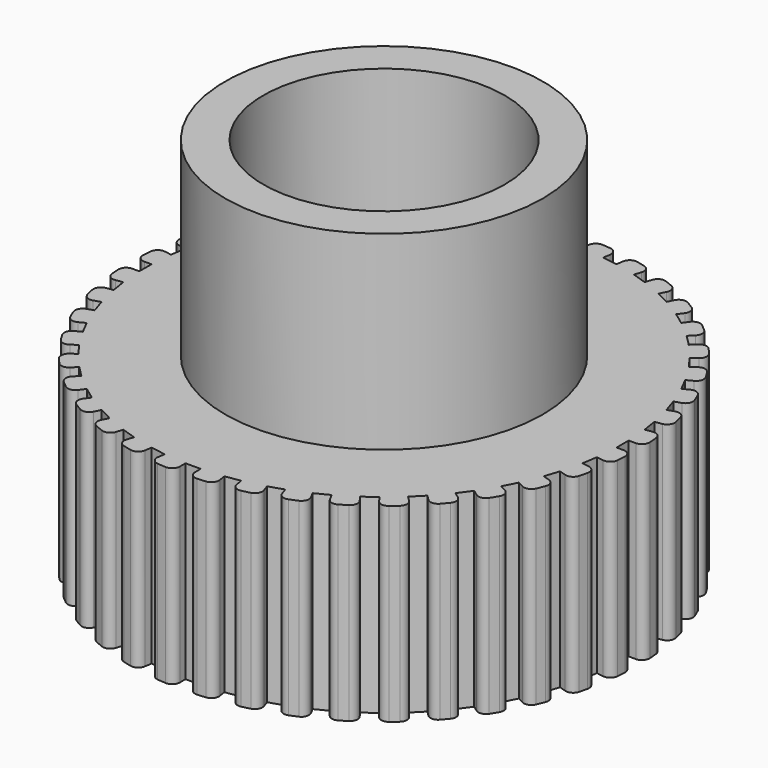
from build123d import *

# Parameters (mm, degrees)
F0_R     = 8.35
F0_R_2   = 6.35
F1_DEPTH = 20
F2_DEPTH = 10


with BuildPart() as f1:
    # F0 (on Top) → F1 (new body)
    with BuildSketch(Plane.XY):
        Circle(F0_R)
        Circle(F0_R_2, mode=Mode.SUBTRACT)
    extrude(amount=F1_DEPTH)

    # F0 (on Top) → F2 (join)
    with BuildSketch(Plane.XY):
        with BuildLine():
            ThreePointArc((12.925266, 0.4), (13.216714, 0.526033), (13.324502, 0.82471))
            ThreePointArc((13.324502, 0.82471), (13.308846, 1.047429), (13.289468, 1.269854))
            ThreePointArc((13.289468, 1.269854), (13.136284, 1.547993), (12.828708, 1.626882))
            Line((12.828708, 1.626882), (12.458062, 1.568177))
            Line((12.458062, 1.568177), (12.332915, 2.358328))
            Line((12.332915, 2.358328), (12.703561, 2.417032))
            ThreePointArc((12.703561, 2.417032), (12.971705, 2.587106), (13.031442, 2.898968))
            ThreePointArc((13.031442, 2.898968), (12.981138, 3.116496), (12.927204, 3.333151))
            ThreePointArc((12.927204, 3.333151), (12.732395, 3.583902), (12.416265, 3.613704))
            Line((12.416265, 3.613704), (12.059366, 3.497741))
            Line((12.059366, 3.497741), (11.812152, 4.258586))
            Line((11.812152, 4.258586), (12.169052, 4.374549))
            ThreePointArc((12.169052, 4.374549), (12.407289, 4.584476), (12.417505, 4.901844))
            ThreePointArc((12.417505, 4.901844), (12.333792, 5.108824), (12.246629, 5.314375))
            ThreePointArc((12.246629, 5.314375), (12.014993, 5.531564), (11.698092, 5.511545))
            Line((11.698092, 5.511545), (11.363728, 5.341178))
            Line((11.363728, 5.341178), (11.000536, 6.053983))
            Line((11.000536, 6.053983), (11.3349, 6.224351))
            ThreePointArc((11.3349, 6.224351), (11.537365, 6.468962), (11.497807, 6.78402))
            ThreePointArc((11.497807, 6.78402), (11.382746, 6.975356), (11.264501, 7.164741))
            ThreePointArc((11.264501, 7.164741), (11.001741, 7.34302), (10.691874, 7.273674))
            Line((10.691874, 7.273674), (10.388277, 7.053098))
            Line((10.388277, 7.053098), (9.918049, 7.700312))
            Line((9.918049, 7.700312), (10.221646, 7.920888))
            ThreePointArc((10.221646, 7.920888), (10.383352, 8.194159), (10.294996, 8.499151))
            ThreePointArc((10.294996, 8.499151), (10.15142, 8.670131), (10.005004, 8.838687))
            ThreePointArc((10.005004, 8.838687), (9.71759, 8.973667), (9.422386, 8.8567))
            Line((9.422386, 8.8567), (9.157033, 8.591347))
            Line((9.157033, 8.591347), (8.591347, 9.157033))
            Line((8.591347, 9.157033), (8.8567, 9.422386))
            ThreePointArc((8.8567, 9.422386), (8.973667, 9.71759), (8.838687, 10.005004))
            ThreePointArc((8.838687, 10.005004), (8.670131, 10.15142), (8.499151, 10.294996))
            ThreePointArc((8.499151, 10.294996), (8.194159, 10.383352), (7.920888, 10.221646))
            Line((7.920888, 10.221646), (7.700312, 9.918049))
            Line((7.700312, 9.918049), (7.053098, 10.388277))
            Line((7.053098, 10.388277), (7.273674, 10.691874))
            ThreePointArc((7.273674, 10.691874), (7.34302, 11.001741), (7.164741, 11.264501))
            ThreePointArc((7.164741, 11.264501), (6.975356, 11.382746), (6.78402, 11.497807))
            ThreePointArc((6.78402, 11.497807), (6.468962, 11.537365), (6.224351, 11.3349))
            Line((6.224351, 11.3349), (6.053983, 11.000536))
            Line((6.053983, 11.000536), (5.341178, 11.363728))
            Line((5.341178, 11.363728), (5.511545, 11.698092))
            ThreePointArc((5.511545, 11.698092), (5.531564, 12.014993), (5.314375, 12.246629))
            ThreePointArc((5.314375, 12.246629), (5.108824, 12.333792), (4.901844, 12.417505))
            ThreePointArc((4.901844, 12.417505), (4.584476, 12.407289), (4.374549, 12.169052))
            Line((4.374549, 12.169052), (4.258586, 11.812152))
            Line((4.258586, 11.812152), (3.497741, 12.059366))
            Line((3.497741, 12.059366), (3.613704, 12.416265))
            ThreePointArc((3.613704, 12.416265), (3.583902, 12.732395), (3.333151, 12.927204))
            ThreePointArc((3.333151, 12.927204), (3.116496, 12.981138), (2.898968, 13.031442))
            ThreePointArc((2.898968, 13.031442), (2.587106, 12.971705), (2.417032, 12.703561))
            Line((2.417032, 12.703561), (2.358328, 12.332915))
            Line((2.358328, 12.332915), (1.568177, 12.458062))
            Line((1.568177, 12.458062), (1.626882, 12.828708))
            ThreePointArc((1.626882, 12.828708), (1.547993, 13.136284), (1.269854, 13.289468))
            ThreePointArc((1.269854, 13.289468), (1.047429, 13.308846), (0.82471, 13.324502))
            ThreePointArc((0.82471, 13.324502), (0.526033, 13.216714), (0.4, 12.925266))
            Line((0.4, 12.925266), (0.4, 12.55))
            Line((0.4, 12.55), (-0.4, 12.55))
            Line((-0.4, 12.55), (-0.4, 12.925266))
            ThreePointArc((-0.4, 12.925266), (-0.526033, 13.216714), (-0.82471, 13.324502))
            ThreePointArc((-0.82471, 13.324502), (-1.047429, 13.308846), (-1.269854, 13.289468))
            ThreePointArc((-1.269854, 13.289468), (-1.547993, 13.136284), (-1.626882, 12.828708))
            Line((-1.626882, 12.828708), (-1.568177, 12.458062))
            Line((-1.568177, 12.458062), (-2.358328, 12.332915))
            Line((-2.358328, 12.332915), (-2.417032, 12.703561))
            ThreePointArc((-2.417032, 12.703561), (-2.587106, 12.971705), (-2.898968, 13.031442))
            ThreePointArc((-2.898968, 13.031442), (-3.116496, 12.981138), (-3.333151, 12.927204))
            ThreePointArc((-3.333151, 12.927204), (-3.583902, 12.732395), (-3.613704, 12.416265))
            Line((-3.613704, 12.416265), (-3.497741, 12.059366))
            Line((-3.497741, 12.059366), (-4.258586, 11.812152))
            Line((-4.258586, 11.812152), (-4.374549, 12.169052))
            ThreePointArc((-4.374549, 12.169052), (-4.584476, 12.407289), (-4.901844, 12.417505))
            ThreePointArc((-4.901844, 12.417505), (-5.108824, 12.333792), (-5.314375, 12.246629))
            ThreePointArc((-5.314375, 12.246629), (-5.531564, 12.014993), (-5.511545, 11.698092))
            Line((-5.511545, 11.698092), (-5.341178, 11.363728))
            Line((-5.341178, 11.363728), (-6.053983, 11.000536))
            Line((-6.053983, 11.000536), (-6.224351, 11.3349))
            ThreePointArc((-6.224351, 11.3349), (-6.468962, 11.537365), (-6.78402, 11.497807))
            ThreePointArc((-6.78402, 11.497807), (-6.975356, 11.382746), (-7.164741, 11.264501))
            ThreePointArc((-7.164741, 11.264501), (-7.34302, 11.001741), (-7.273674, 10.691874))
            Line((-7.273674, 10.691874), (-7.053098, 10.388277))
            Line((-7.053098, 10.388277), (-7.700312, 9.918049))
            Line((-7.700312, 9.918049), (-7.920888, 10.221646))
            ThreePointArc((-7.920888, 10.221646), (-8.194159, 10.383352), (-8.499151, 10.294996))
            ThreePointArc((-8.499151, 10.294996), (-8.670131, 10.15142), (-8.838687, 10.005004))
            ThreePointArc((-8.838687, 10.005004), (-8.973667, 9.71759), (-8.8567, 9.422386))
            Line((-8.8567, 9.422386), (-8.591347, 9.157033))
            Line((-8.591347, 9.157033), (-9.157033, 8.591347))
            Line((-9.157033, 8.591347), (-9.422386, 8.8567))
            ThreePointArc((-9.422386, 8.8567), (-9.71759, 8.973667), (-10.005004, 8.838687))
            ThreePointArc((-10.005004, 8.838687), (-10.15142, 8.670131), (-10.294996, 8.499151))
            ThreePointArc((-10.294996, 8.499151), (-10.383352, 8.194159), (-10.221646, 7.920888))
            Line((-10.221646, 7.920888), (-9.918049, 7.700312))
            Line((-9.918049, 7.700312), (-10.388277, 7.053098))
            Line((-10.388277, 7.053098), (-10.691874, 7.273674))
            ThreePointArc((-10.691874, 7.273674), (-11.001741, 7.34302), (-11.264501, 7.164741))
            ThreePointArc((-11.264501, 7.164741), (-11.382746, 6.975356), (-11.497807, 6.78402))
            ThreePointArc((-11.497807, 6.78402), (-11.537365, 6.468962), (-11.3349, 6.224351))
            Line((-11.3349, 6.224351), (-11.000536, 6.053983))
            Line((-11.000536, 6.053983), (-11.363728, 5.341178))
            Line((-11.363728, 5.341178), (-11.698092, 5.511545))
            ThreePointArc((-11.698092, 5.511545), (-12.014993, 5.531564), (-12.246629, 5.314375))
            ThreePointArc((-12.246629, 5.314375), (-12.333792, 5.108824), (-12.417505, 4.901844))
            ThreePointArc((-12.417505, 4.901844), (-12.407289, 4.584476), (-12.169052, 4.374549))
            Line((-12.169052, 4.374549), (-11.812152, 4.258586))
            Line((-11.812152, 4.258586), (-12.059366, 3.497741))
            Line((-12.059366, 3.497741), (-12.416265, 3.613704))
            ThreePointArc((-12.416265, 3.613704), (-12.732395, 3.583902), (-12.927204, 3.333151))
            ThreePointArc((-12.927204, 3.333151), (-12.981138, 3.116496), (-13.031442, 2.898968))
            ThreePointArc((-13.031442, 2.898968), (-12.971705, 2.587106), (-12.703561, 2.417032))
            Line((-12.703561, 2.417032), (-12.332915, 2.358328))
            Line((-12.332915, 2.358328), (-12.458062, 1.568177))
            Line((-12.458062, 1.568177), (-12.828708, 1.626882))
            ThreePointArc((-12.828708, 1.626882), (-13.136284, 1.547993), (-13.289468, 1.269854))
            ThreePointArc((-13.289468, 1.269854), (-13.308846, 1.047429), (-13.324502, 0.82471))
            ThreePointArc((-13.324502, 0.82471), (-13.216714, 0.526033), (-12.925266, 0.4))
            Line((-12.925266, 0.4), (-12.55, 0.4))
            Line((-12.55, 0.4), (-12.55, -0.4))
            Line((-12.55, -0.4), (-12.925266, -0.4))
            ThreePointArc((-12.925266, -0.4), (-13.216714, -0.526033), (-13.324502, -0.82471))
            ThreePointArc((-13.324502, -0.82471), (-13.308846, -1.047429), (-13.289468, -1.269854))
            ThreePointArc((-13.289468, -1.269854), (-13.136284, -1.547993), (-12.828708, -1.626882))
            Line((-12.828708, -1.626882), (-12.458062, -1.568177))
            Line((-12.458062, -1.568177), (-12.332915, -2.358328))
            Line((-12.332915, -2.358328), (-12.703561, -2.417032))
            ThreePointArc((-12.703561, -2.417032), (-12.971705, -2.587106), (-13.031442, -2.898968))
            ThreePointArc((-13.031442, -2.898968), (-12.981138, -3.116496), (-12.927204, -3.333151))
            ThreePointArc((-12.927204, -3.333151), (-12.732395, -3.583902), (-12.416265, -3.613704))
            Line((-12.416265, -3.613704), (-12.059366, -3.497741))
            Line((-12.059366, -3.497741), (-11.812152, -4.258586))
            Line((-11.812152, -4.258586), (-12.169052, -4.374549))
            ThreePointArc((-12.169052, -4.374549), (-12.407289, -4.584476), (-12.417505, -4.901844))
            ThreePointArc((-12.417505, -4.901844), (-12.333792, -5.108824), (-12.246629, -5.314375))
            ThreePointArc((-12.246629, -5.314375), (-12.014993, -5.531564), (-11.698092, -5.511545))
            Line((-11.698092, -5.511545), (-11.363728, -5.341178))
            Line((-11.363728, -5.341178), (-11.000536, -6.053983))
            Line((-11.000536, -6.053983), (-11.3349, -6.224351))
            ThreePointArc((-11.3349, -6.224351), (-11.537365, -6.468962), (-11.497807, -6.78402))
            ThreePointArc((-11.497807, -6.78402), (-11.382746, -6.975356), (-11.264501, -7.164741))
            ThreePointArc((-11.264501, -7.164741), (-11.001741, -7.34302), (-10.691874, -7.273674))
            Line((-10.691874, -7.273674), (-10.388277, -7.053098))
            Line((-10.388277, -7.053098), (-9.918049, -7.700312))
            Line((-9.918049, -7.700312), (-10.221646, -7.920888))
            ThreePointArc((-10.221646, -7.920888), (-10.383352, -8.194159), (-10.294996, -8.499151))
            ThreePointArc((-10.294996, -8.499151), (-10.15142, -8.670131), (-10.005004, -8.838687))
            ThreePointArc((-10.005004, -8.838687), (-9.71759, -8.973667), (-9.422386, -8.8567))
            Line((-9.422386, -8.8567), (-9.157033, -8.591347))
            Line((-9.157033, -8.591347), (-8.591347, -9.157033))
            Line((-8.591347, -9.157033), (-8.8567, -9.422386))
            ThreePointArc((-8.8567, -9.422386), (-8.973667, -9.71759), (-8.838687, -10.005004))
            ThreePointArc((-8.838687, -10.005004), (-8.670131, -10.15142), (-8.499151, -10.294996))
            ThreePointArc((-8.499151, -10.294996), (-8.194159, -10.383352), (-7.920888, -10.221646))
            Line((-7.920888, -10.221646), (-7.700312, -9.918049))
            Line((-7.700312, -9.918049), (-7.053098, -10.388277))
            Line((-7.053098, -10.388277), (-7.273674, -10.691874))
            ThreePointArc((-7.273674, -10.691874), (-7.34302, -11.001741), (-7.164741, -11.264501))
            ThreePointArc((-7.164741, -11.264501), (-6.975356, -11.382746), (-6.78402, -11.497807))
            ThreePointArc((-6.78402, -11.497807), (-6.468962, -11.537365), (-6.224351, -11.3349))
            Line((-6.224351, -11.3349), (-6.053983, -11.000536))
            Line((-6.053983, -11.000536), (-5.341178, -11.363728))
            Line((-5.341178, -11.363728), (-5.511545, -11.698092))
            ThreePointArc((-5.511545, -11.698092), (-5.531564, -12.014993), (-5.314375, -12.246629))
            ThreePointArc((-5.314375, -12.246629), (-5.108824, -12.333792), (-4.901844, -12.417505))
            ThreePointArc((-4.901844, -12.417505), (-4.584476, -12.407289), (-4.374549, -12.169052))
            Line((-4.374549, -12.169052), (-4.258586, -11.812152))
            Line((-4.258586, -11.812152), (-3.497741, -12.059366))
            Line((-3.497741, -12.059366), (-3.613704, -12.416265))
            ThreePointArc((-3.613704, -12.416265), (-3.583902, -12.732395), (-3.333151, -12.927204))
            ThreePointArc((-3.333151, -12.927204), (-3.116496, -12.981138), (-2.898968, -13.031442))
            ThreePointArc((-2.898968, -13.031442), (-2.587106, -12.971705), (-2.417032, -12.703561))
            Line((-2.417032, -12.703561), (-2.358328, -12.332915))
            Line((-2.358328, -12.332915), (-1.568177, -12.458062))
            Line((-1.568177, -12.458062), (-1.626882, -12.828708))
            ThreePointArc((-1.626882, -12.828708), (-1.547993, -13.136284), (-1.269854, -13.289468))
            ThreePointArc((-1.269854, -13.289468), (-1.047429, -13.308846), (-0.82471, -13.324502))
            ThreePointArc((-0.82471, -13.324502), (-0.526033, -13.216714), (-0.4, -12.925266))
            Line((-0.4, -12.925266), (-0.4, -12.55))
            Line((-0.4, -12.55), (0.4, -12.55))
            Line((0.4, -12.55), (0.4, -12.925266))
            ThreePointArc((0.4, -12.925266), (0.526033, -13.216714), (0.82471, -13.324502))
            ThreePointArc((0.82471, -13.324502), (1.047429, -13.308846), (1.269854, -13.289468))
            ThreePointArc((1.269854, -13.289468), (1.547993, -13.136284), (1.626882, -12.828708))
            Line((1.626882, -12.828708), (1.568177, -12.458062))
            Line((1.568177, -12.458062), (2.358328, -12.332915))
            Line((2.358328, -12.332915), (2.417032, -12.703561))
            ThreePointArc((2.417032, -12.703561), (2.587106, -12.971705), (2.898968, -13.031442))
            ThreePointArc((2.898968, -13.031442), (3.116496, -12.981138), (3.333151, -12.927204))
            ThreePointArc((3.333151, -12.927204), (3.583902, -12.732395), (3.613704, -12.416265))
            Line((3.613704, -12.416265), (3.497741, -12.059366))
            Line((3.497741, -12.059366), (4.258586, -11.812152))
            Line((4.258586, -11.812152), (4.374549, -12.169052))
            ThreePointArc((4.374549, -12.169052), (4.584476, -12.407289), (4.901844, -12.417505))
            ThreePointArc((4.901844, -12.417505), (5.108824, -12.333792), (5.314375, -12.246629))
            ThreePointArc((5.314375, -12.246629), (5.531564, -12.014993), (5.511545, -11.698092))
            Line((5.511545, -11.698092), (5.341178, -11.363728))
            Line((5.341178, -11.363728), (6.053983, -11.000536))
            Line((6.053983, -11.000536), (6.224351, -11.3349))
            ThreePointArc((6.224351, -11.3349), (6.468962, -11.537365), (6.78402, -11.497807))
            ThreePointArc((6.78402, -11.497807), (6.975356, -11.382746), (7.164741, -11.264501))
            ThreePointArc((7.164741, -11.264501), (7.34302, -11.001741), (7.273674, -10.691874))
            Line((7.273674, -10.691874), (7.053098, -10.388277))
            Line((7.053098, -10.388277), (7.700312, -9.918049))
            Line((7.700312, -9.918049), (7.920888, -10.221646))
            ThreePointArc((7.920888, -10.221646), (8.194159, -10.383352), (8.499151, -10.294996))
            ThreePointArc((8.499151, -10.294996), (8.670131, -10.15142), (8.838687, -10.005004))
            ThreePointArc((8.838687, -10.005004), (8.973667, -9.71759), (8.8567, -9.422386))
            Line((8.8567, -9.422386), (8.591347, -9.157033))
            Line((8.591347, -9.157033), (9.157033, -8.591347))
            Line((9.157033, -8.591347), (9.422386, -8.8567))
            ThreePointArc((9.422386, -8.8567), (9.71759, -8.973667), (10.005004, -8.838687))
            ThreePointArc((10.005004, -8.838687), (10.15142, -8.670131), (10.294996, -8.499151))
            ThreePointArc((10.294996, -8.499151), (10.383352, -8.194159), (10.221646, -7.920888))
            Line((10.221646, -7.920888), (9.918049, -7.700312))
            Line((9.918049, -7.700312), (10.388277, -7.053098))
            Line((10.388277, -7.053098), (10.691874, -7.273674))
            ThreePointArc((10.691874, -7.273674), (11.001741, -7.34302), (11.264501, -7.164741))
            ThreePointArc((11.264501, -7.164741), (11.382746, -6.975356), (11.497807, -6.78402))
            ThreePointArc((11.497807, -6.78402), (11.537365, -6.468962), (11.3349, -6.224351))
            Line((11.3349, -6.224351), (11.000536, -6.053983))
            Line((11.000536, -6.053983), (11.363728, -5.341178))
            Line((11.363728, -5.341178), (11.698092, -5.511545))
            ThreePointArc((11.698092, -5.511545), (12.014993, -5.531564), (12.246629, -5.314375))
            ThreePointArc((12.246629, -5.314375), (12.333792, -5.108824), (12.417505, -4.901844))
            ThreePointArc((12.417505, -4.901844), (12.407289, -4.584476), (12.169052, -4.374549))
            Line((12.169052, -4.374549), (11.812152, -4.258586))
            Line((11.812152, -4.258586), (12.059366, -3.497741))
            Line((12.059366, -3.497741), (12.416265, -3.613704))
            ThreePointArc((12.416265, -3.613704), (12.732395, -3.583902), (12.927204, -3.333151))
            ThreePointArc((12.927204, -3.333151), (12.981138, -3.116496), (13.031442, -2.898968))
            ThreePointArc((13.031442, -2.898968), (12.971705, -2.587106), (12.703561, -2.417032))
            Line((12.703561, -2.417032), (12.332915, -2.358328))
            Line((12.332915, -2.358328), (12.458062, -1.568177))
            Line((12.458062, -1.568177), (12.828708, -1.626882))
            ThreePointArc((12.828708, -1.626882), (13.136284, -1.547993), (13.289468, -1.269854))
            ThreePointArc((13.289468, -1.269854), (13.308846, -1.047429), (13.324502, -0.82471))
            ThreePointArc((13.324502, -0.82471), (13.216714, -0.526033), (12.925266, -0.4))
            Line((12.925266, -0.4), (12.55, -0.4))
            Line((12.55, -0.4), (12.55, 0.4))
            Line((12.55, 0.4), (12.925266, 0.4))
        make_face()
        Circle(F0_R, mode=Mode.SUBTRACT)
    extrude(amount=F2_DEPTH)


solid = f1.part
